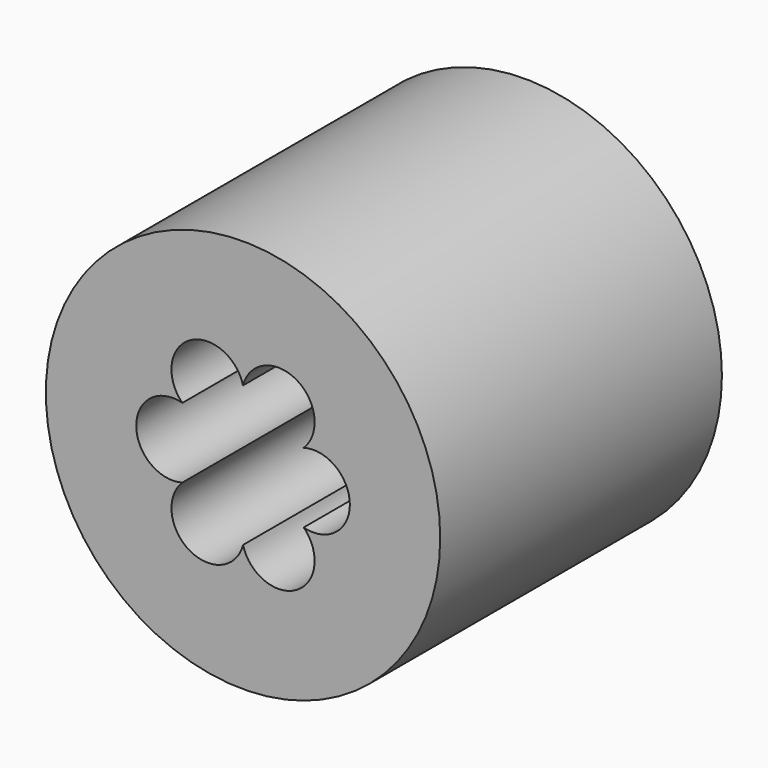
from build123d import *

# Parameters (mm, degrees)
CYLINDER002_R          = 2.5
CYLINDER002_DEPTH      = 17
CYLINDER003_R          = 1.55
CYLINDER003_DEPTH      = 17
CYLINDER004_R          = 1.55
CYLINDER004_DEPTH      = 17
CYLINDER005_R          = 1.55
CYLINDER005_DEPTH      = 17
CYLINDER006_R          = 1.55
CYLINDER006_DEPTH      = 17
CYLINDER007_R          = 1.55
CYLINDER007_DEPTH      = 17
CYLINDER001_R          = 1.55
CYLINDER001_DEPTH      = 17
SKETCH019_R            = 8.4
PAD010_DEPTH           = 15
CUT009_PLACEMENT_ANGLE = 90


with BuildPart() as fibre002:
    # Cylinder002 → Cylinder002 (new body)
    with BuildSketch(Plane.XY):
        Circle(CYLINDER002_R)
    extrude(amount=CYLINDER002_DEPTH)


with BuildPart() as fibre003:
    # Cylinder003 → Cylinder003 (new body)
    with BuildSketch(Plane(origin=(1.5, -2.6, 0), x_dir=(1, 0, 0), z_dir=(0, 0, 1))):
        Circle(CYLINDER003_R)
    extrude(amount=CYLINDER003_DEPTH)


with BuildPart() as fibre004:
    # Cylinder004 → Cylinder004 (new body)
    with BuildSketch(Plane(origin=(3, 0, 0), x_dir=(1, 0, 0), z_dir=(0, 0, 1))):
        Circle(CYLINDER004_R)
    extrude(amount=CYLINDER004_DEPTH)


with BuildPart() as fibre005:
    # Cylinder005 → Cylinder005 (new body)
    with BuildSketch(Plane(origin=(-3, 0, 0), x_dir=(1, 0, 0), z_dir=(0, 0, 1))):
        Circle(CYLINDER005_R)
    extrude(amount=CYLINDER005_DEPTH)


with BuildPart() as fibre006:
    # Cylinder006 → Cylinder006 (new body)
    with BuildSketch(Plane(origin=(-1.5, 2.6, 0), x_dir=(1, 0, 0), z_dir=(0, 0, 1))):
        Circle(CYLINDER006_R)
    extrude(amount=CYLINDER006_DEPTH)


with BuildPart() as fibre007:
    # Cylinder007 → Cylinder007 (new body)
    with BuildSketch(Plane(origin=(-1.5, -2.6, 0), x_dir=(1, 0, 0), z_dir=(0, 0, 1))):
        Circle(CYLINDER007_R)
    extrude(amount=CYLINDER007_DEPTH)


with BuildPart() as fibres:
    # Cylinder001 → Cylinder001 (new body)
    with BuildSketch(Plane(origin=(1.5, 2.6, 0), x_dir=(1, 0, 0), z_dir=(0, 0, 1))):
        Circle(CYLINDER001_R)
    extrude(amount=CYLINDER001_DEPTH)

    # Fusion: union Fibre002, Fibre003, Fibre004, Fibre005, Fibre006, Fibre007
    add(fibre002.part)
    add(fibre003.part)
    add(fibre004.part)
    add(fibre005.part)
    add(fibre006.part)
    add(fibre007.part)


with BuildPart() as fibresholder:
    # Sketch019 → Pad010 (new body)
    with BuildSketch(Plane.XY):
        Circle(SKETCH019_R)
    extrude(amount=PAD010_DEPTH)

    # Cut009: cut Fibres
    add(fibres.part, mode=Mode.SUBTRACT)


with BuildPart() as fibresholder_1:
    # Cut009 placement: moved
    add(fibresholder.part.moved(Location((0, -53.7, 0))).rotate(Axis((0, -53.7, 0), (1, 0, 0)), CUT009_PLACEMENT_ANGLE))


solid = fibresholder_1.part
